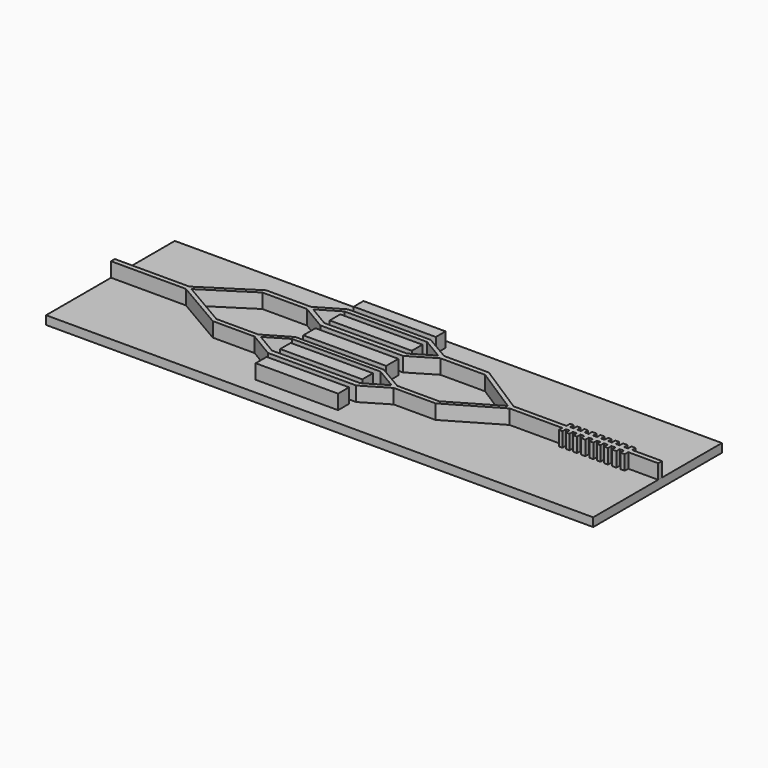
from build123d import *

# Parameters (mm, degrees)
F0_W     = 468.000487
F0_H     = 137.646742
F1_DEPTH = 7.366
F2_W     = 70.247736
F2_H     = 10.415282
F2_W_2   = 70.469331
F2_H_2   = 11.744887
F2_H_3   = 11.301685
F2_W_3   = 70.91254
F2_H_4   = 13.074499
F3_DEPTH = 12.446


with BuildPart() as f1:
    # F0 (on Top) → F1 (new body)
    with BuildSketch(Plane.XY):
        with Locations((31.531855, 0.796761)):
            Rectangle(F0_W, F0_H)
    extrude(amount=F1_DEPTH)

    # F2 (on face) → F3 (join)
    with BuildSketch(Plane.XY.offset(7.366)):
        Polygon((-138.646447, 5.454973), (-156.350389, 5.454973), (-202.468388, 5.454973), (-202.468388, 1.403027), (-156.604389, 1.403027), (-138.416419, 1.403027), (-95.286213, -23.789594), (-59.45519, -23.789594), (-37.736211, -36.710622), (0, -36.710622), (37.736211, -36.710622), (59.45519, -23.789594), (95.286213, -23.789594), (138.416419, 1.403027), (156.604389, 1.403027), (181.72892, 1.403027), (183.610221, 1.405067), (183.59076, -2.286332), (186.661547, -2.286332), (186.661547, 1.475384), (189.655577, 1.475384), (189.655577, -2.286332), (192.649593, -2.286332), (192.649593, 1.475384), (195.873921, 1.475384), (195.873921, -2.286332), (199.09825, -2.286332), (199.09825, 1.475384), (202.476119, 1.475384), (202.476119, -2.286332), (206.237828, -2.286332), (206.237828, 1.475384), (209.615698, 1.475384), (209.615698, -2.286332), (213.147109, -2.286332), (213.147109, 1.475384), (216.14114, 1.475384), (216.14114, -2.286332), (219.135156, -2.286332), (219.135156, 1.475384), (222.359484, 1.475384), (222.359484, -2.286332), (225.583812, -2.286332), (225.583812, 1.475384), (228.961682, 1.475384), (228.961682, -2.286332), (232.72339, -2.286332), (232.72339, 1.475384), (236.10126, 1.475384), (236.10126, -2.286332), (239.886671, -2.286332), (239.886671, 1.519807), (265.532099, 1.473806), (265.532099, 5.592193), (239.886671, 5.592193), (239.886671, 9.353909), (236.35526, 9.353909), (236.35526, 5.592193), (232.97739, 5.592193), (232.97739, 9.353909), (229.215682, 9.353909), (229.215682, 5.592193), (225.837812, 5.592193), (225.837812, 9.353909), (222.613484, 9.353909), (222.613484, 5.592193), (219.389156, 5.592193), (219.389156, 9.353909), (216.39514, 9.353909), (216.39514, 5.592193), (213.401109, 5.592193), (213.401109, 9.353909), (209.869698, 9.353909), (209.869698, 5.592193), (206.491828, 5.592193), (206.491828, 9.353909), (202.730119, 9.353909), (202.730119, 5.592193), (199.35225, 5.592193), (199.35225, 9.353909), (196.127921, 9.353909), (196.127921, 5.592193), (192.903593, 5.592193), (192.903593, 9.353909), (189.909577, 9.353909), (189.909577, 5.592193), (186.915547, 5.592193), (186.915547, 9.353909), (183.864221, 9.353909), (183.864221, 5.446596), (181.752861, 5.454973), (156.350389, 5.454973), (138.646447, 5.454973), (95.279287, 33.300258), (57.058044, 33.300258), (35.339065, 45.953158), (0, 45.953158), (-35.339065, 45.953158), (-57.058044, 33.300258), (-95.279287, 33.300258), align=None)
        Polygon((-37.810078, -32.348648), (-55.936935, -21.585828), (-37.810078, -10.823006), (0, -10.823006), (37.810078, -10.823006), (55.936935, -21.585828), (37.810078, -32.348648), (0, -32.348648), align=None, mode=Mode.SUBTRACT)
        Polygon((-135.340132, 3.482032), (-95.286213, 29.199943), (-57.058044, 29.199943), (-35.339065, 16.278915), (0, 16.278915), (35.339065, 16.278915), (57.058044, 29.199943), (95.286213, 29.199943), (135.340132, 3.482032), (95.286213, -19.91371), (59.45519, -19.91371), (37.736211, -7.260809), (0, -7.260809), (-37.736211, -7.260809), (-59.45519, -19.91371), (-95.286213, -19.91371), align=None, mode=Mode.SUBTRACT)
        Polygon((-35.358623, 20.574907), (-53.485479, 31.337727), (-35.358623, 42.100549), (0, 42.100549), (35.358623, 42.100549), (53.485479, 31.337727), (35.358623, 20.574907), (0, 20.574907), align=None, mode=Mode.SUBTRACT)
        with Locations((0.305964, 56.552144)):
            Rectangle(F2_W, F2_H)
        with Locations((0.416769, -47.60065)):
            Rectangle(F2_W_2, F2_H_2)
        with Locations((0.259081, 31.408699)):
            Rectangle(F2_W, F2_H_3)
        with Locations((0.195164, 4.475746)):
            Rectangle(F2_W_3, F2_H_4)
        with Locations((0.247676, -21.536928)):
            Rectangle(F2_W, F2_H_3)
    extrude(amount=F3_DEPTH)


solid = f1.part
